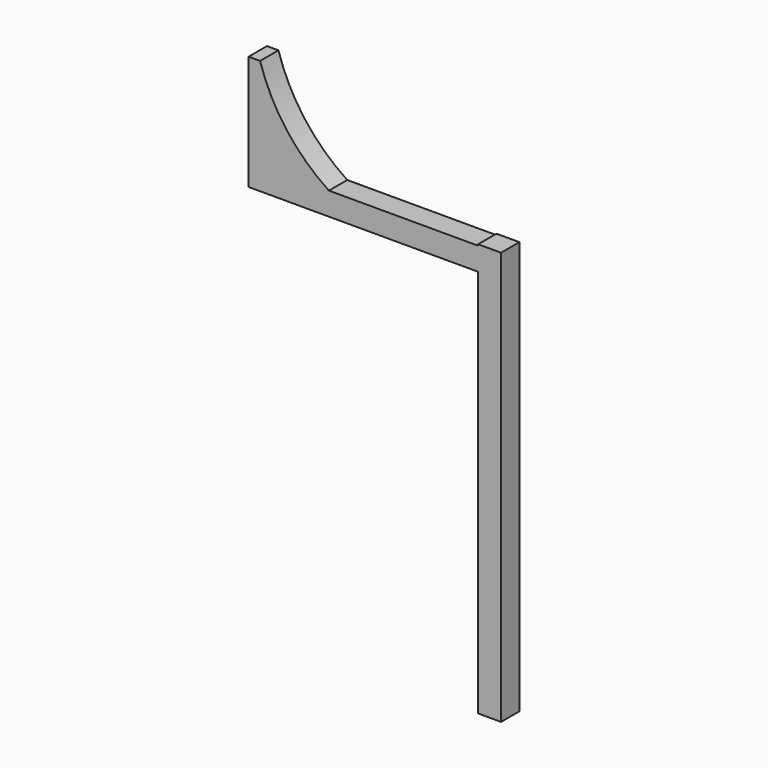
from build123d import *

# Parameters (mm, degrees)
F0_W     = 25.4
F0_H     = 25.4
F1_DEPTH = 457.2
F3_DEPTH = 25.4


with BuildPart() as f1:
    # F0 (on Top) → F1 (new body)
    with BuildSketch(Plane.XY):
        with Locations((12.7, -12.7)):
            Rectangle(F0_W, F0_H)
    extrude(amount=F1_DEPTH)

    # F2 (on Front) → F3 (join)
    with BuildSketch(Plane.XZ):
        with BuildLine():
            Line((0, 430.384725), (0, 455.784725))
            Line((0, 455.784725), (-165.1, 455.784725))
            ThreePointArc((-165.1, 455.784725), (-212.10024, 499.909546), (-241.3, 557.384725))
            Line((-241.3, 557.384725), (-254, 557.384725))
            Line((-254, 557.384725), (-254, 430.384725))
            Line((-254, 430.384725), (0, 430.384725))
        make_face()
    extrude(amount=F3_DEPTH)


solid = f1.part
